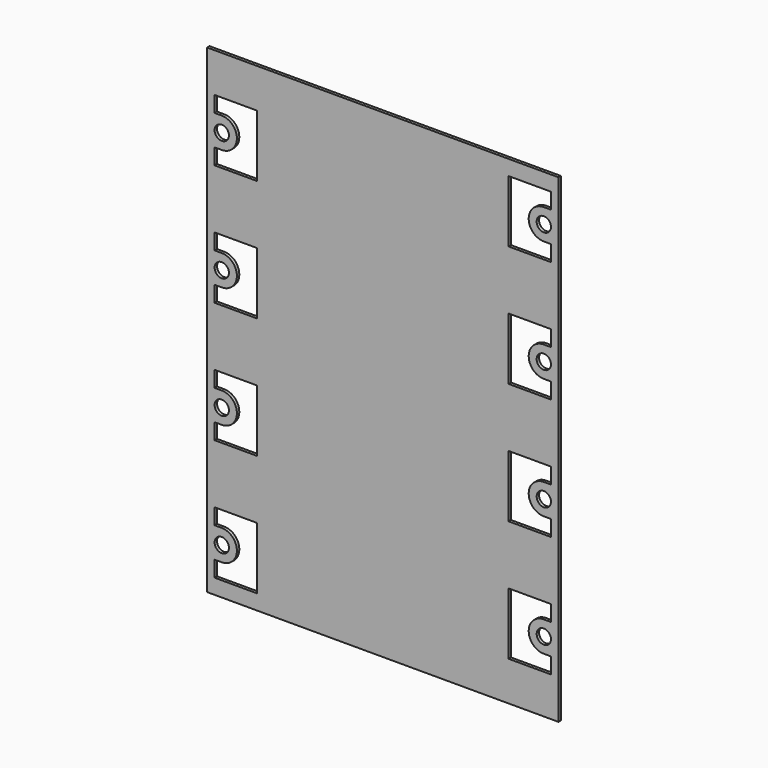
from build123d import *

# Parameters (mm, degrees)
F0_W     = 295.148
F0_H     = 402.59
F0_R     = 6.0071
F1_DEPTH = 2.54


with BuildPart() as f1:
    # F0 (on Front) → F1 (new body)
    with BuildSketch(Plane.XZ):
        with Locations((110.562274, -122.229906)):
            Rectangle(F0_W, F0_H)
        with Locations((-24.654626, -284.789906)):
            Circle(F0_R, mode=Mode.SUBTRACT)
        with BuildLine():
            Line((-30.661726, -258.754906), (4.898274, -258.754906))
            Line((4.898274, -258.754906), (4.898274, -310.824906))
            Line((4.898274, -310.824906), (-30.661726, -310.824906))
            Line((-30.661726, -310.824906), (-30.661726, -297.489906))
            Line((-30.661726, -297.489906), (-24.654626, -297.489906))
            ThreePointArc((-24.654626, -297.489906), (-11.954626, -284.789906), (-24.654626, -272.089906))
            Line((-24.654626, -272.089906), (-30.661726, -272.089906))
            Line((-30.661726, -272.089906), (-30.661726, -258.754906))
        make_face(mode=Mode.SUBTRACT)
        with Locations((-24.654626, -183.189906)):
            Circle(F0_R, mode=Mode.SUBTRACT)
        with BuildLine():
            Line((-30.661726, -157.154906), (4.898274, -157.154906))
            Line((4.898274, -157.154906), (4.898274, -209.224906))
            Line((4.898274, -209.224906), (-30.661726, -209.224906))
            Line((-30.661726, -209.224906), (-30.661726, -195.889906))
            Line((-30.661726, -195.889906), (-24.654626, -195.889906))
            ThreePointArc((-24.654626, -195.889906), (-11.954626, -183.189906), (-24.654626, -170.489906))
            Line((-24.654626, -170.489906), (-30.661726, -170.489906))
            Line((-30.661726, -170.489906), (-30.661726, -157.154906))
        make_face(mode=Mode.SUBTRACT)
        with BuildLine():
            Line((251.786274, -290.504906), (216.226274, -290.504906))
            Line((216.226274, -290.504906), (216.226274, -238.434906))
            Line((216.226274, -238.434906), (251.786274, -238.434906))
            Line((251.786274, -238.434906), (251.786274, -251.769906))
            Line((251.786274, -251.769906), (245.779174, -251.769906))
            ThreePointArc((245.779174, -251.769906), (233.079174, -264.469906), (245.779174, -277.169906))
            Line((245.779174, -277.169906), (251.786274, -277.169906))
            Line((251.786274, -277.169906), (251.786274, -290.504906))
        make_face(mode=Mode.SUBTRACT)
        with Locations((245.779174, -264.469906)):
            Circle(F0_R, mode=Mode.SUBTRACT)
        with BuildLine():
            Line((251.786274, -150.169906), (245.779174, -150.169906))
            ThreePointArc((245.779174, -150.169906), (233.079174, -162.869906), (245.779174, -175.569906))
            Line((245.779174, -175.569906), (251.786274, -175.569906))
            Line((251.786274, -175.569906), (251.786274, -188.904906))
            Line((251.786274, -188.904906), (216.226274, -188.904906))
            Line((216.226274, -188.904906), (216.226274, -136.834906))
            Line((216.226274, -136.834906), (251.786274, -136.834906))
            Line((251.786274, -136.834906), (251.786274, -150.169906))
        make_face(mode=Mode.SUBTRACT)
        with Locations((245.779174, -162.869906)):
            Circle(F0_R, mode=Mode.SUBTRACT)
        with Locations((-24.654626, -81.589906)):
            Circle(F0_R, mode=Mode.SUBTRACT)
        with BuildLine():
            Line((-30.661726, -55.554906), (4.898274, -55.554906))
            Line((4.898274, -55.554906), (4.898274, -107.624906))
            Line((4.898274, -107.624906), (-30.661726, -107.624906))
            Line((-30.661726, -107.624906), (-30.661726, -94.289906))
            Line((-30.661726, -94.289906), (-24.654626, -94.289906))
            ThreePointArc((-24.654626, -94.289906), (-11.954626, -81.589906), (-24.654626, -68.889906))
            Line((-24.654626, -68.889906), (-30.661726, -68.889906))
            Line((-30.661726, -68.889906), (-30.661726, -55.554906))
        make_face(mode=Mode.SUBTRACT)
        with Locations((-24.654626, 20.010094)):
            Circle(F0_R, mode=Mode.SUBTRACT)
        with BuildLine():
            Line((-30.661726, 32.710094), (-30.661726, 46.045094))
            Line((-30.661726, 46.045094), (4.898274, 46.045094))
            Line((4.898274, 46.045094), (4.898274, -6.024906))
            Line((4.898274, -6.024906), (-30.661726, -6.024906))
            Line((-30.661726, -6.024906), (-30.661726, 7.310094))
            Line((-30.661726, 7.310094), (-24.654626, 7.310094))
            ThreePointArc((-24.654626, 7.310094), (-11.954626, 20.010094), (-24.654626, 32.710094))
            Line((-24.654626, 32.710094), (-30.661726, 32.710094))
        make_face(mode=Mode.SUBTRACT)
        with BuildLine():
            Line((216.226274, -35.234906), (251.786274, -35.234906))
            Line((251.786274, -35.234906), (251.786274, -48.569906))
            Line((251.786274, -48.569906), (245.779174, -48.569906))
            ThreePointArc((245.779174, -48.569906), (233.079174, -61.269906), (245.779174, -73.969906))
            Line((245.779174, -73.969906), (251.786274, -73.969906))
            Line((251.786274, -73.969906), (251.786274, -87.304906))
            Line((251.786274, -87.304906), (216.226274, -87.304906))
            Line((216.226274, -87.304906), (216.226274, -35.234906))
        make_face(mode=Mode.SUBTRACT)
        with Locations((245.779174, -61.269906)):
            Circle(F0_R, mode=Mode.SUBTRACT)
        with BuildLine():
            Line((251.786274, 27.630094), (251.786274, 14.295094))
            Line((251.786274, 14.295094), (216.226274, 14.295094))
            Line((216.226274, 14.295094), (216.226274, 66.365094))
            Line((216.226274, 66.365094), (251.786274, 66.365094))
            Line((251.786274, 66.365094), (251.786274, 53.030094))
            Line((251.786274, 53.030094), (245.779174, 53.030094))
            ThreePointArc((245.779174, 53.030094), (233.079174, 40.330094), (245.779174, 27.630094))
            Line((245.779174, 27.630094), (251.786274, 27.630094))
        make_face(mode=Mode.SUBTRACT)
        with Locations((245.779174, 40.330094)):
            Circle(F0_R, mode=Mode.SUBTRACT)
    extrude(amount=F1_DEPTH)


solid = f1.part
